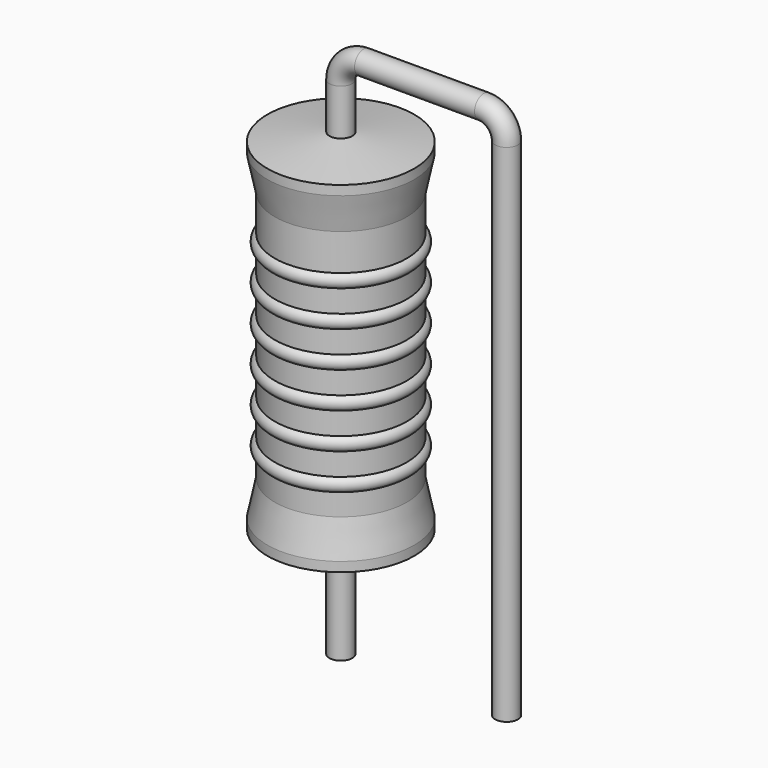
from build123d import *

# Parameters (mm, degrees)
SKETCH_R = 0.35


with BuildPart() as sweep_body:
    # Sweep: sweep along a path in Sketch001
    with BuildLine(Plane.XZ) as sweep_path:
        Line((0, -3), (0, 12.5))
        ThreePointArc((0, 12.5), (0.205023, 12.994972), (0.699994, 13.2))
        Line((0.699994, 13.2), (4.38, 13.2))
        ThreePointArc((4.38, 13.2), (4.874975, 12.994975), (5.08, 12.5))
        Line((5.08, 12.5), (5.08, -3))
    # Sketch → Sweep (sweep)
    with BuildSketch(Plane.XY.offset(-2)):
        Circle(SKETCH_R)
    sweep(path=sweep_path.line)


with BuildPart() as revolution:
    # Sketch002 → Revolution (revolve)
    with BuildSketch(Plane.XZ):
        Polygon((0, 0.1), (0, 11.1), (0.2625, 11.1), (2.25, 10.825), (2.25, 10.5325), (2.025, 9.45), (2.025, 1.75), (2.25, 0.6675), (2.25, 0.375), (0.2625, 0.1), align=None)
    revolve(axis=Axis((0, 0, 0), (0, 0, 1)))


with BuildPart() as revolution001:
    # Sketch003 → Revolution001 (revolve)
    with BuildSketch(Plane.XZ):
        with BuildLine():
            Line((1.8, 9), (1.8, 1.75))
            Line((1.8, 1.75), (1.935, 1.75))
            Line((1.935, 1.75), (1.935, 2.4))
            ThreePointArc((1.935, 2.4), (2.16, 2.625), (1.935, 2.85))
            Line((1.935, 2.85), (1.935, 3.5))
            ThreePointArc((1.935, 3.5), (2.16, 3.725), (1.935, 3.95))
            Line((1.935, 3.95), (1.935, 4.6))
            ThreePointArc((1.935, 4.6), (2.16, 4.825), (1.935, 5.05))
            Line((1.935, 5.05), (1.935, 5.7))
            ThreePointArc((1.935, 5.7), (2.16, 5.925), (1.935, 6.15))
            Line((1.935, 6.15), (1.935, 6.8))
            ThreePointArc((1.935, 6.8), (2.16, 7.025), (1.935, 7.25))
            Line((1.935, 7.25), (1.935, 7.9))
            ThreePointArc((1.935, 7.9), (2.16, 8.125), (1.935, 8.35))
            Line((1.935, 9), (1.935, 8.35))
            Line((1.8, 9), (1.935, 9))
        make_face()
    revolve(axis=Axis((0, 0, 0), (0, 0, 1)))


solid = Compound([sweep_body.part, revolution.part, revolution001.part])
